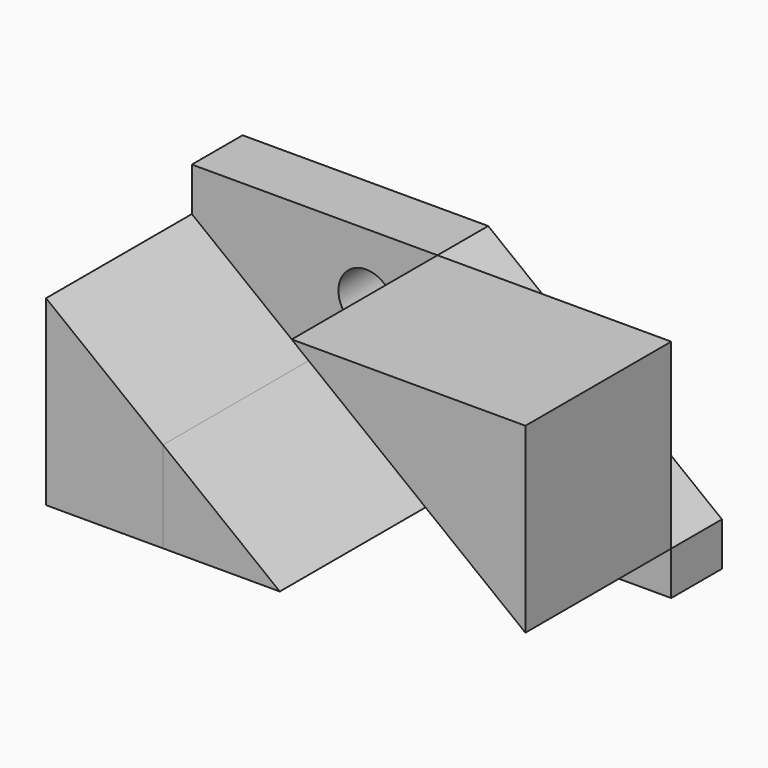
from build123d import *

# Parameters (mm, degrees)
F1_DEPTH = 46
F2_DEPTH = 46
F0_R     = 7
F3_DEPTH = 16
F4_DEPTH = 46


with BuildPart() as f1:
    # F0 (on Front) → F1 (new body)
    with BuildSketch(Plane.XZ):
        Polygon((121, 57), (62, 57), (121, 11), align=None)
    extrude(amount=F1_DEPTH)


with BuildPart() as f2:
    # F0 (on Front) → F2 (new body)
    with BuildSketch(Plane.XZ):
        Polygon((0, 46), (0, 0), (29.5, 0), (29.5, 23), align=None)
    extrude(amount=F2_DEPTH)


with BuildPart() as f3:
    # F0 (on Front) → F3 (new body)
    with BuildSketch(Plane.XZ):
        Polygon((0, 57), (0, 46), (29.5, 23), (59, 0), (121, 0), (121, 11), (62, 57), align=None)
        with Locations((77, 12)):
            Circle(F0_R, mode=Mode.SUBTRACT)
        with Locations((44, 41)):
            Circle(F0_R, mode=Mode.SUBTRACT)
    extrude(amount=-F3_DEPTH)


with BuildPart() as f4:
    # F0 (on Front) → F4 (new body)
    with BuildSketch(Plane.XZ):
        Polygon((29.5, 23), (29.5, 0), (59, 0), align=None)
    extrude(amount=F4_DEPTH)


solid = Compound([f1.part, f2.part, f3.part, f4.part])
